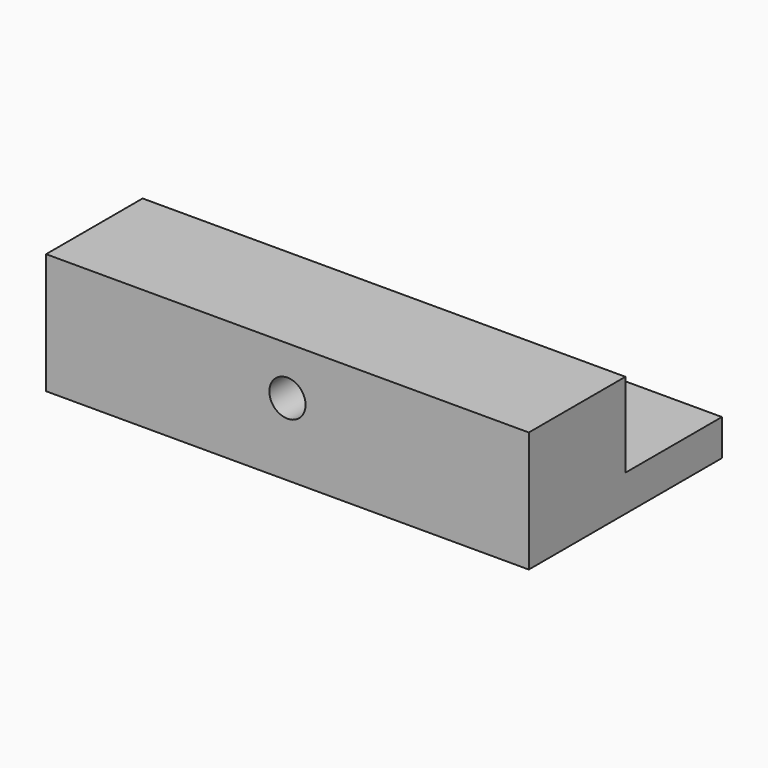
from build123d import *

# Parameters (mm, degrees)
F0_W     = 40
F0_H     = 20
F1_DEPTH = 10
F2_W     = 40
F2_H     = 10
F3_DEPTH = 7
F5_D     = 3
F7_D     = 2


with BuildPart() as f1:
    # F0 (on Top) → F1 (new body)
    with BuildSketch(Plane.XY):
        Rectangle(F0_W, F0_H)
    extrude(amount=F1_DEPTH)

    # F2 (on face) → F3 (cut)
    with BuildSketch(Plane.XY.offset(10)):
        with Locations((0, 5)):
            Rectangle(F2_W, F2_H)
    extrude(amount=-F3_DEPTH, mode=Mode.SUBTRACT)

    # F5 (through all)
    with Locations(Plane.XZ.offset(10)):
        with Locations((0, 6)):
            Hole(F5_D / 2)

    # F7 (through all)
    with Locations(Plane.XY.offset(3)):
        with Locations((0, 5)):
            Hole(F7_D / 2)


solid = f1.part
